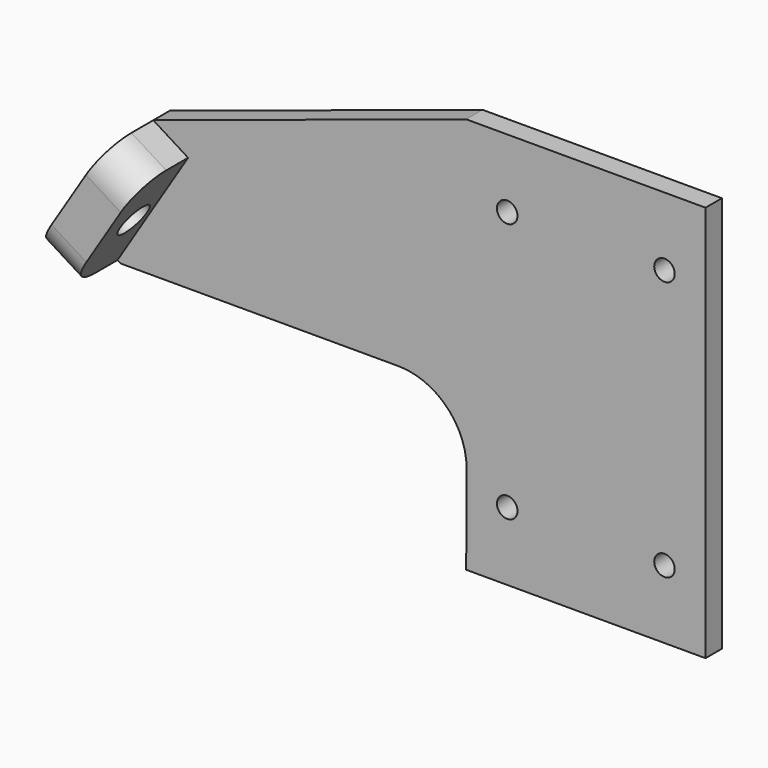
from build123d import *

# Parameters (mm, degrees)
F1_DEPTH = 3
F4_DEPTH = 9
F5_R     = 5
F6_D     = 3
F8_D     = 5
F9_R     = 10


with BuildPart() as f1:
    # F0 (on Front) → F1 (new body)
    with BuildSketch(Plane.XZ):
        Polygon((-35, 0), (0, 0), (0, 58), (-35, 58), (-80.7513064809, 43), (-91.0847321335, 26.4630621249), (-85.5426742387, 23), (-34.875433892, 23), align=None)
    extrude(amount=-F1_DEPTH)

    # F3 (on face) → F4 (join)
    with BuildSketch(Plane.XZ):
        Polygon((-75.663017904, 39.8204844146), (-80.7513064809, 43), (-91.0847321335, 26.4630621249), (-85.9964435565, 23.2835465396), align=None)
    extrude(amount=F4_DEPTH)

    # F5
    f5_edges = [f1.edges().sort_by_distance(p)[0] for p in [
        (-78.207162, -9, 41.410242),
        (-88.540588, -9, 24.873304),
    ]]
    fillet(f5_edges, radius=F5_R)

    # F6 (through all)
    with Locations(Plane.XZ):
        with Locations((-29, 48), (-6, 48), (-6, 10), (-29, 10)):
            Hole(F6_D / 2)

    # F8 (through all)
    with Locations(Plane(origin=(-77.3992466493, 0, 48.364417092), x_dir=(0, -1, 0), z_dir=(-0.8480480962, 0, 0.5299192642))):
        with Locations((3.5, -16.0756047815)):
            Hole(F8_D / 2)

    # F9
    f9_edges = [f1.edges().sort_by_distance(p)[0] for p in [
        (-34.875434, 1.5, 23),
    ]]
    fillet(f9_edges, radius=F9_R)


solid = f1.part
